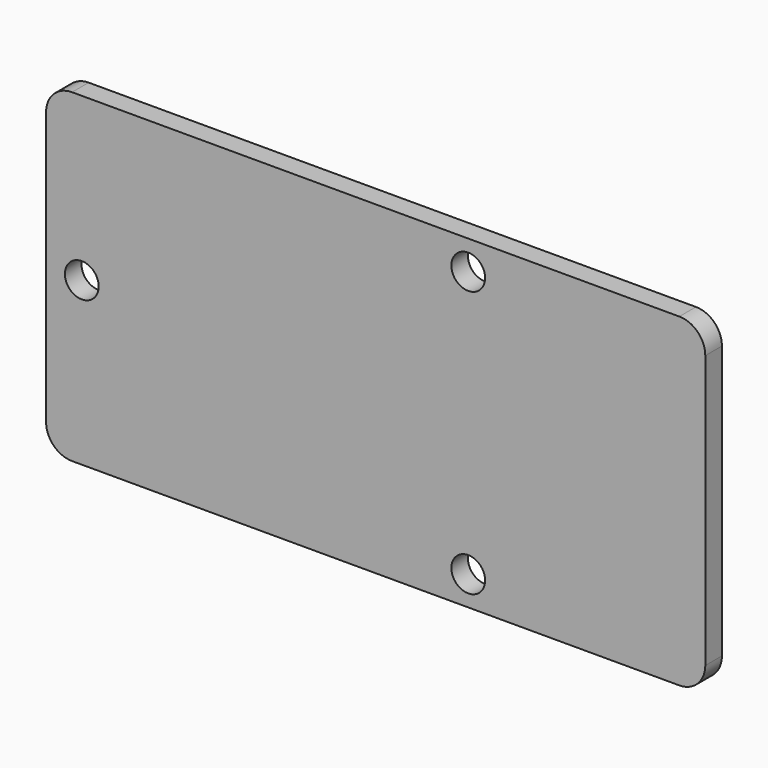
from build123d import *

# Parameters (mm, degrees)
SKETCH_W     = 50.75
SKETCH_H     = 25
PAD_DEPTH    = 1.6
FILLET_R     = 2
SKETCH001_R  = 1.3
POCKET_DEPTH = 1.601


with BuildPart() as part:
    # Sketch → Pad (new body)
    with BuildSketch(Plane.XZ):
        Rectangle(SKETCH_W, SKETCH_H)
    extrude(amount=-PAD_DEPTH)

    # Fillet
    fillet_edges = [part.edges().sort_by_distance(p)[0] for p in [
        (25.375, 0.8, 12.5),
        (-25.375, 0.8, 12.5),
        (-25.375, 0.8, -12.5),
        (25.375, 0.8, -12.5),
    ]]
    fillet(fillet_edges, radius=FILLET_R)

    # Sketch001 → Pocket (cut, through all)
    with BuildSketch(Plane.XZ):
        with Locations((-22.625, 0)):
            Circle(SKETCH001_R)
        with Locations((7.125, 10.25)):
            Circle(SKETCH001_R)
        with Locations((7.125, -10.25)):
            Circle(SKETCH001_R)
    extrude(amount=-POCKET_DEPTH, mode=Mode.SUBTRACT)


solid = part.part
